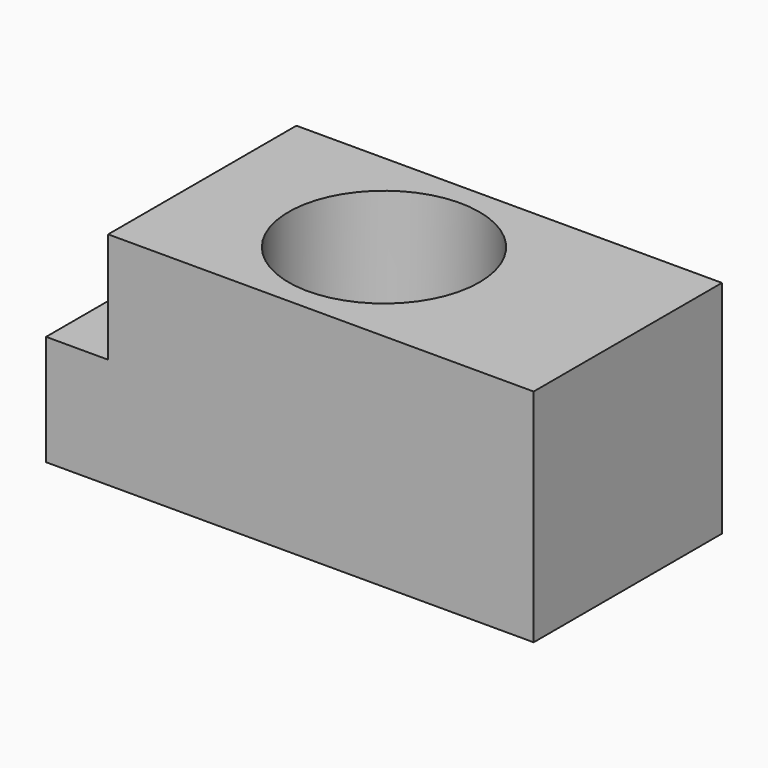
from build123d import *

# Parameters (mm, degrees)
F0_W     = 98.459579
F0_H     = 54.143504
F0_R     = 21.951484
F0_W_2   = 7.046074
F0_W_3   = 6.675221
F1_DEPTH = 25.4
F2_W     = 2.781346
F2_H     = 54.143504
F2_W_2   = 95.121965
F2_R     = 21.951484
F3_DEPTH = 25.4


with BuildPart() as f1:
    # F0 (on Top) → F1 (new body)
    with BuildSketch(Plane.XY):
        with Locations((6.860647, 0)):
            Rectangle(F0_W, F0_H)
        Circle(F0_R, mode=Mode.SUBTRACT)
        with Locations((-45.892179, 0)):
            Rectangle(F0_W_2, F0_H)
        with Locations((-52.752826, 0)):
            Rectangle(F0_W_3, F0_H)
    extrude(amount=F1_DEPTH)

    # F2 (on face) → F3 (join)
    with BuildSketch(Plane.XY.offset(25.4)):
        with Locations((-40.422201, 0)):
            Rectangle(F2_W, F2_H)
        with Locations((8.529454, 0)):
            Rectangle(F2_W_2, F2_H)
        Circle(F2_R, mode=Mode.SUBTRACT)
    extrude(amount=F3_DEPTH)


solid = f1.part
